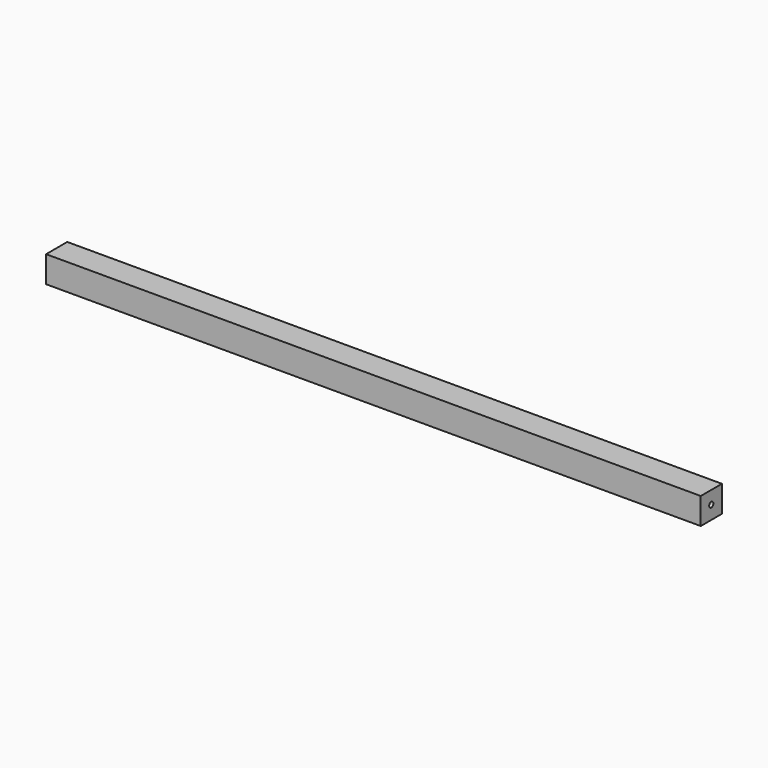
from build123d import *

# Parameters (mm, degrees)
F0_W     = 16.174244
F0_H     = 16.174244
F1_DEPTH = 400
F2_R     = 2.315336
F3_DEPTH = 25
F4_R     = 1.59091
F5_DEPTH = 25


with BuildPart() as f1:
    # F0 (on Right) → F1 (new body)
    with BuildSketch(Plane.YZ):
        with Locations((8.087122, 8.087122)):
            Rectangle(F0_W, F0_H)
    extrude(amount=F1_DEPTH)

    # F2 (on face) → F3 (cut)
    with BuildSketch(Plane(origin=(0, 0, 0), x_dir=(0, -1, 0), z_dir=(-1, 0, 0))):
        with Locations((-8.242639, 8.594578)):
            Circle(F2_R)
    extrude(amount=-F3_DEPTH, mode=Mode.SUBTRACT)

    # F4 (on face) → F5 (cut)
    with BuildSketch(Plane.YZ.offset(400)):
        with Locations((8.032903, 8.240791)):
            Circle(F4_R)
    extrude(amount=-F5_DEPTH, mode=Mode.SUBTRACT)


solid = f1.part
